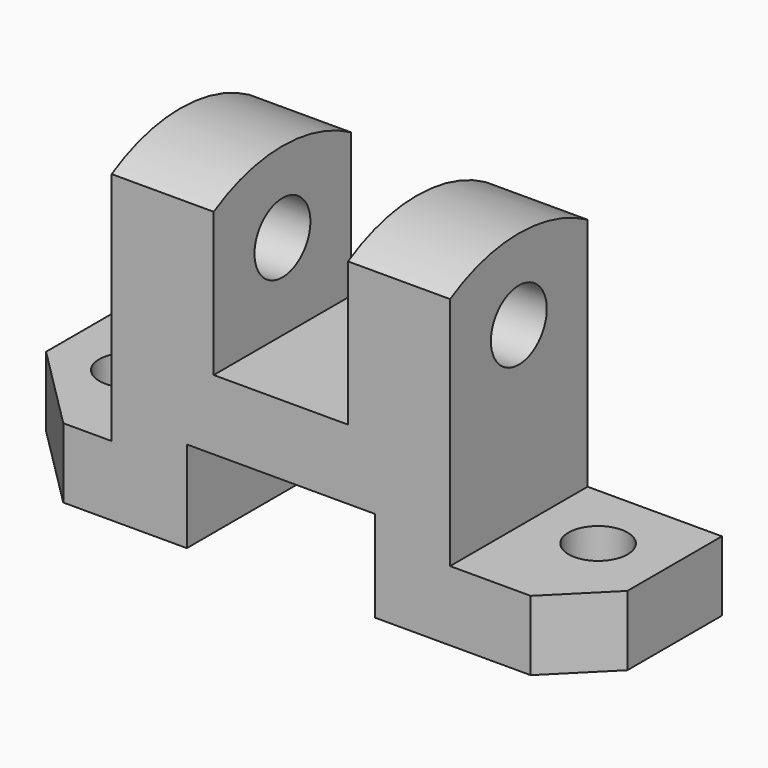
from build123d import *

# Parameters (mm, degrees)
F1_DEPTH = 32
F2_R     = 5.5
F3_DEPTH = 13.001
F5_DEPTH = 19
F4_R     = 6.5
F6_DEPTH = 88.001
F8_DEPTH = 19


with BuildPart() as f1:
    # F0 (on Front) → F1 (new body)
    with BuildSketch(Plane.XZ):
        Polygon((25, 0), (0, 0), (0, -13), (39, -13), (39, 4), (74, 4), (74, -13), (113, -13), (113, 0), (88, 0), (88, 43.748), (69, 43.748), (69, 17), (44, 17), (44, 43.748), (25, 43.748), align=None)
    extrude(amount=F1_DEPTH)

    # F2 (on Top) → F3 (cut, through all)
    with BuildSketch(Plane.XY):
        with Locations((13, -13)):
            Circle(F2_R)
        with Locations((100.350889, -13)):
            Circle(F2_R)
        Polygon((16, -32), (0, -16), (0, -32), align=None)
        Polygon((113, -22), (103, -32), (113, -32), align=None)
    extrude(amount=-F3_DEPTH, mode=Mode.SUBTRACT)

    # F4 (on face) → F5 (join)
    with BuildSketch(Plane(origin=(25, 0, 0), x_dir=(0, -1, 0), z_dir=(-1, 0, 0))):
        with BuildLine():
            ThreePointArc((32, 43.748), (16, 48.035187), (0, 43.748))
            Line((0, 43.748), (32, 43.748))
        make_face()
    extrude(amount=-F5_DEPTH)

    # F4 (on face) → F6 (cut, through all)
    with BuildSketch(Plane(origin=(25, 0, 0), x_dir=(0, -1, 0), z_dir=(-1, 0, 0))):
        with Locations((16, 33)):
            Circle(F4_R)
    extrude(amount=-F6_DEPTH, mode=Mode.SUBTRACT)

    # F7 (on face) → F8 (join)
    with BuildSketch(Plane.YZ.offset(88)):
        with BuildLine():
            ThreePointArc((0, 43.748), (-16, 48.035187), (-32, 43.748))
            Line((-32, 43.748), (0, 43.748))
        make_face()
    extrude(amount=-F8_DEPTH)


solid = f1.part
